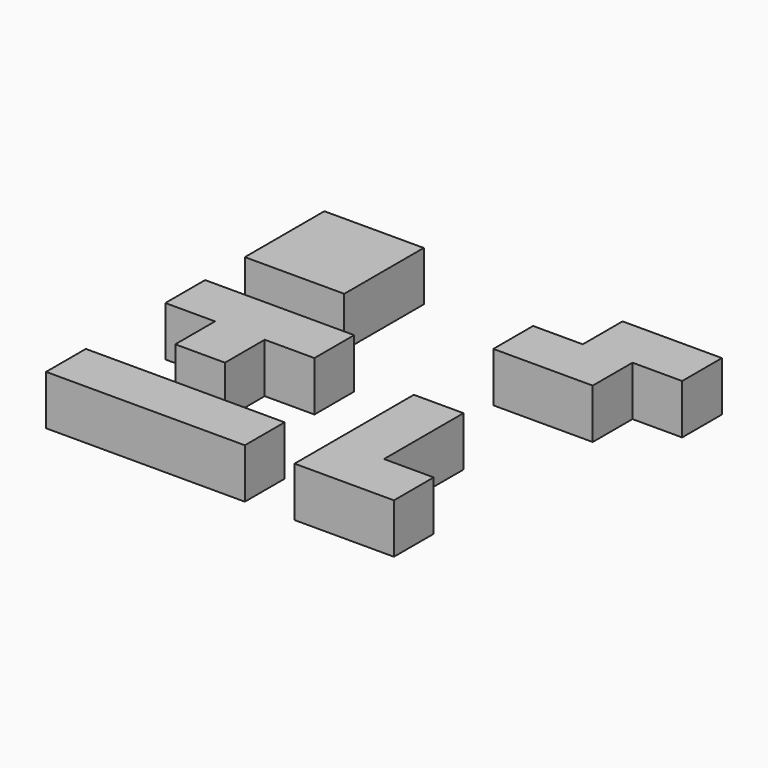
from build123d import *

# Parameters (mm, degrees)
BOX_W        = 40
BOX_H        = 10
BOX_DEPTH    = 10
BOX001_W     = 10
BOX001_H     = 10
BOX001_DEPTH = 10
BOX002_W     = 30
BOX002_H     = 10
BOX002_DEPTH = 10
BOX004_W     = 10
BOX004_H     = 30
BOX004_DEPTH = 10
BOX003_W     = 20
BOX003_H     = 10
BOX003_DEPTH = 10
BOX006_W     = 20
BOX006_H     = 10
BOX006_DEPTH = 10
BOX005_W     = 20
BOX005_H     = 10
BOX005_DEPTH = 10
BOX008_W     = 20
BOX008_H     = 10
BOX008_DEPTH = 10
BOX007_W     = 20
BOX007_H     = 10
BOX007_DEPTH = 10


with BuildPart() as box:
    # Box → Box (new body)
    with BuildSketch(Plane.XY):
        with Locations((20, 5)):
            Rectangle(BOX_W, BOX_H)
    extrude(amount=BOX_DEPTH)


with BuildPart() as cub001:
    # Box001 → Box001 (new body)
    with BuildSketch(Plane(origin=(10, 20, 0), x_dir=(1, 0, 0), z_dir=(0, 0, 1))):
        with Locations((5, 5)):
            Rectangle(BOX001_W, BOX001_H)
    extrude(amount=BOX001_DEPTH)


with BuildPart() as obj1:
    # Box002 → Box002 (new body)
    with BuildSketch(Plane(origin=(0, 30, 0), x_dir=(1, 0, 0), z_dir=(0, 0, 1))):
        with Locations((15, 5)):
            Rectangle(BOX002_W, BOX002_H)
    extrude(amount=BOX002_DEPTH)

    # Fusion: union Cub001
    add(cub001.part)


with BuildPart() as cub003:
    # Box004 → Box004 (new body)
    with BuildSketch(Plane(origin=(50, 0, 0), x_dir=(1, 0, 0), z_dir=(0, 0, 1))):
        with Locations((5, 15)):
            Rectangle(BOX004_W, BOX004_H)
    extrude(amount=BOX004_DEPTH)


with BuildPart() as obj2:
    # Box003 → Box003 (new body)
    with BuildSketch(Plane(origin=(50, 0, 0), x_dir=(1, 0, 0), z_dir=(0, 0, 1))):
        with Locations((10, 5)):
            Rectangle(BOX003_W, BOX003_H)
    extrude(amount=BOX003_DEPTH)

    # Fusion002: union Cub003
    add(cub003.part)


with BuildPart() as cub005:
    # Box006 → Box006 (new body)
    with BuildSketch(Plane(origin=(0, 60, 0), x_dir=(1, 0, 0), z_dir=(0, 0, 1))):
        with Locations((10, 5)):
            Rectangle(BOX006_W, BOX006_H)
    extrude(amount=BOX006_DEPTH)


with BuildPart() as fusion005:
    # Box005 → Box005 (new body)
    with BuildSketch(Plane(origin=(0, 50, 0), x_dir=(1, 0, 0), z_dir=(0, 0, 1))):
        with Locations((10, 5)):
            Rectangle(BOX005_W, BOX005_H)
    extrude(amount=BOX005_DEPTH)

    # Fusion004: union Cub005
    add(cub005.part)


with BuildPart() as cub007:
    # Box008 → Box008 (new body)
    with BuildSketch(Plane(origin=(60, 60, 0), x_dir=(1, 0, 0), z_dir=(0, 0, 1))):
        with Locations((10, 5)):
            Rectangle(BOX008_W, BOX008_H)
    extrude(amount=BOX008_DEPTH)


with BuildPart() as fusion007:
    # Box007 → Box007 (new body)
    with BuildSketch(Plane(origin=(50, 50, 0), x_dir=(1, 0, 0), z_dir=(0, 0, 1))):
        with Locations((10, 5)):
            Rectangle(BOX007_W, BOX007_H)
    extrude(amount=BOX007_DEPTH)

    # Fusion006: union Cub007
    add(cub007.part)


solid = Compound([box.part, obj1.part, obj2.part, fusion005.part, fusion007.part])
